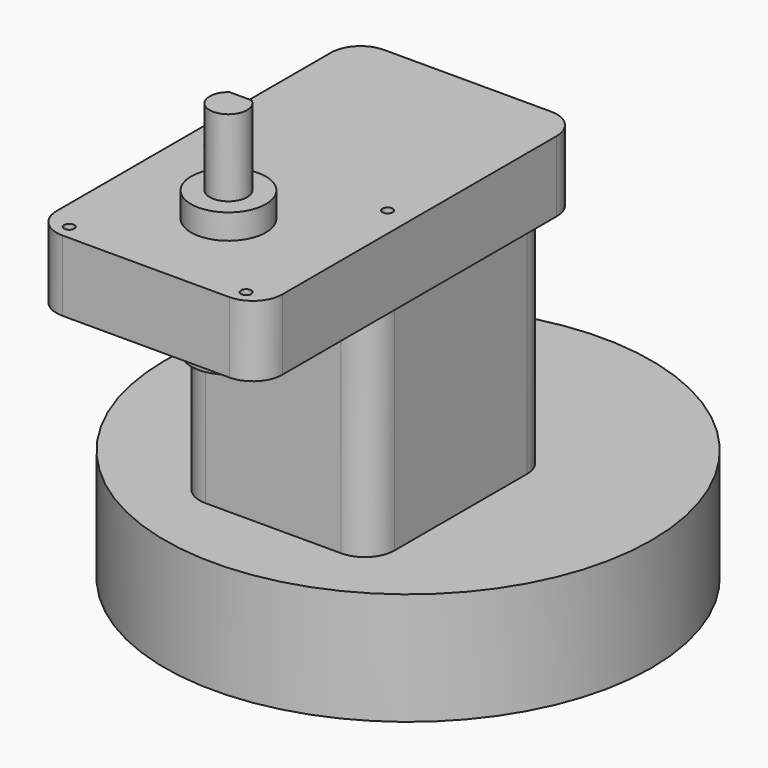
from build123d import *

# Parameters (mm, degrees)
F0_W          = 76.57
F0_H          = 136.35
F0_R          = 1.7272
F1_DEPTH      = 24
F2_R          = 12.7
F3_DEPTH      = 8.47
F3_DEPTH_BACK = 40
F5_DEPTH      = 26
F6_W          = 66.04
F6_H          = 76.2
F7_DEPTH      = 76.2
F8_R          = 82.55
F9_DEPTH      = 38.1
F10_R         = 10


with BuildPart() as f1:
    # F0 (on Top) → F1 (new body)
    with BuildSketch(Plane.XY):
        Rectangle(F0_W, F0_H)
        with Locations((-30, -63.175)):
            Circle(F0_R, mode=Mode.SUBTRACT)
        with Locations((-30, -3.175)):
            Circle(F0_R, mode=Mode.SUBTRACT)
        with Locations((30, -63.175)):
            Circle(F0_R, mode=Mode.SUBTRACT)
        with Locations((30, -3.175)):
            Circle(F0_R, mode=Mode.SUBTRACT)
    extrude(amount=F1_DEPTH)

    # F2 (on face) → F3 (join, two sides)
    with BuildSketch(Plane.XY.offset(24)) as f3_sk:
        with Locations((0, -33.175)):
            Circle(F2_R)
    extrude(amount=F3_DEPTH)
    extrude(f3_sk.sketch, amount=-F3_DEPTH_BACK)

    # F4 (on face) → F5 (join)
    with BuildSketch(Plane.XY.offset(32.47)):
        with BuildLine():
            ThreePointArc((-3.714835, -28.025), (0, -39.525), (3.714835, -28.025))
            Line((3.714835, -28.025), (-3.714835, -28.025))
        make_face()
    extrude(amount=F5_DEPTH)

    # F6 (on face) → F7 (join)
    with BuildSketch(Plane(origin=(0, 0, 0), x_dir=(1, 0, 0), z_dir=(0, 0, -1))):
        with Locations((0, -23.979)):
            Rectangle(F6_W, F6_H)
    extrude(amount=F7_DEPTH)

    # F8 (on face) → F9 (join)
    with BuildSketch(Plane(origin=(0, 0, -76.2), x_dir=(1, 0, 0), z_dir=(0, 0, -1))):
        with Locations((0, -43.029)):
            Circle(F8_R)
    extrude(amount=F9_DEPTH)

    # F10
    f10_edges = [f1.edges().sort_by_distance(p)[0] for p in [
        (-33.02, 62.079, -38.1),
        (-33.02, -14.121, -38.1),
        (33.02, 62.079, -38.1),
        (33.02, -14.121, -38.1),
        (38.285, 68.175, 12),
        (-38.285, 68.175, 12),
        (-38.285, -68.175, 12),
        (38.285, -68.175, 12),
    ]]
    fillet(f10_edges, radius=F10_R)


solid = f1.part
